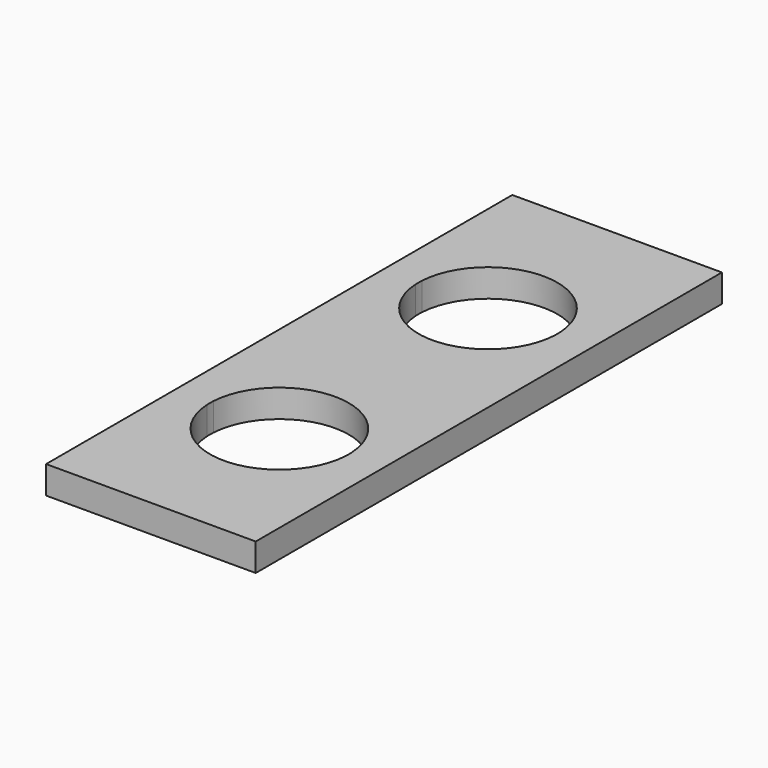
from build123d import *

# Parameters (mm, degrees)
F0_W     = 75.507646
F0_H     = 209.879596
F1_DEPTH = 10


with BuildPart() as f1:
    # F0 (on Top) → F1 (new body)
    with BuildSketch(Plane.XY):
        Rectangle(F0_W, F0_H)
        with BuildLine():
            ThreePointArc((-24.954959, -45.600756), (0, -22.100756), (24.954959, -45.600756))
            Line((24.954959, -45.600756), (27.5, -45.600756))
            Line((27.5, -45.600756), (27.5, -48.600756))
            Line((27.5, -48.600756), (24.954959, -48.600756))
            ThreePointArc((24.954959, -48.600756), (0, -72.100756), (-24.954959, -48.600756))
            Line((-24.954959, -48.600756), (-27.5, -48.600756))
            Line((-27.5, -48.600756), (-27.5, -45.600756))
            Line((-27.5, -45.600756), (-24.954959, -45.600756))
        make_face(mode=Mode.SUBTRACT)
        with BuildLine():
            ThreePointArc((-24.954959, 48.317832), (0, 71.817832), (24.954959, 48.317832))
            Line((24.954959, 48.317832), (27.5, 48.317832))
            Line((27.5, 48.317832), (27.5, 45.317832))
            Line((27.5, 45.317832), (24.954959, 45.317832))
            ThreePointArc((24.954959, 45.317832), (0, 21.817832), (-24.954959, 45.317832))
            Line((-24.954959, 45.317832), (-27.5, 45.317832))
            Line((-27.5, 45.317832), (-27.5, 48.317832))
            Line((-27.5, 48.317832), (-24.954959, 48.317832))
        make_face(mode=Mode.SUBTRACT)
        with BuildLine():
            ThreePointArc((24.954959, -45.600756), (24.988737, -46.350418), (25, -47.100756))
            ThreePointArc((25, -47.100756), (24.988737, -47.851094), (24.954959, -48.600756))
            Line((24.954959, -48.600756), (27.5, -48.600756))
            Line((27.5, -48.600756), (27.5, -45.600756))
            Line((27.5, -45.600756), (24.954959, -45.600756))
        make_face()
        with BuildLine():
            ThreePointArc((-24.954959, -48.600756), (-25, -47.100756), (-24.954959, -45.600756))
            Line((-24.954959, -45.600756), (-27.5, -45.600756))
            Line((-27.5, -45.600756), (-27.5, -48.600756))
            Line((-27.5, -48.600756), (-24.954959, -48.600756))
        make_face()
        with BuildLine():
            ThreePointArc((-24.954959, 45.317832), (-25, 46.817832), (-24.954959, 48.317832))
            Line((-24.954959, 48.317832), (-27.5, 48.317832))
            Line((-27.5, 48.317832), (-27.5, 45.317832))
            Line((-27.5, 45.317832), (-24.954959, 45.317832))
        make_face()
        with BuildLine():
            ThreePointArc((24.954959, 48.317832), (24.988737, 47.56817), (25, 46.817832))
            ThreePointArc((25, 46.817832), (24.988737, 46.067494), (24.954959, 45.317832))
            Line((24.954959, 45.317832), (27.5, 45.317832))
            Line((27.5, 45.317832), (27.5, 48.317832))
            Line((27.5, 48.317832), (24.954959, 48.317832))
        make_face()
    extrude(amount=F1_DEPTH)


solid = f1.part
